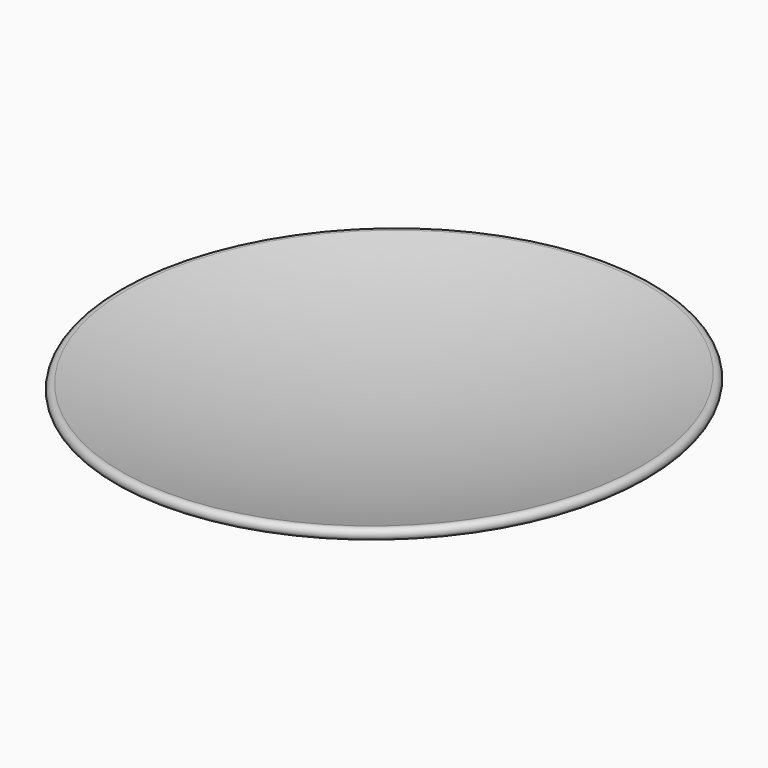
from build123d import *

# Parameters (mm, degrees)
F2_R     = 76.2
F3_DEPTH = 1.5875


with BuildPart() as f1:
    # F0 (on Front) → F1 (revolve)
    with BuildSketch(Plane.XZ):
        with BuildLine():
            Line((-0.0741864407, 3.1741331686), (0, 0))
            ThreePointArc((0, 0), (38.4677625514, 3.6985177994), (75.9977400303, 12.915273197))
            ThreePointArc((75.9977400303, 12.915273197), (77.0186936295, 14.9147646944), (75.0192021321, 15.9357182936))
            ThreePointArc((75.0192021321, 15.9357182936), (37.9358206943, 6.8286396598), (-0.0741864407, 3.1741331686))
        make_face()
    revolve(axis=Axis((-0.0370932204, 0, 1.5870665843), (0.0233658081, 0, -0.9997269822)))

    # F2 (on Top) → F3 (cut)
    with BuildSketch(Plane.XY):
        Circle(F2_R)
    extrude(amount=F3_DEPTH, mode=Mode.SUBTRACT)


solid = f1.part
